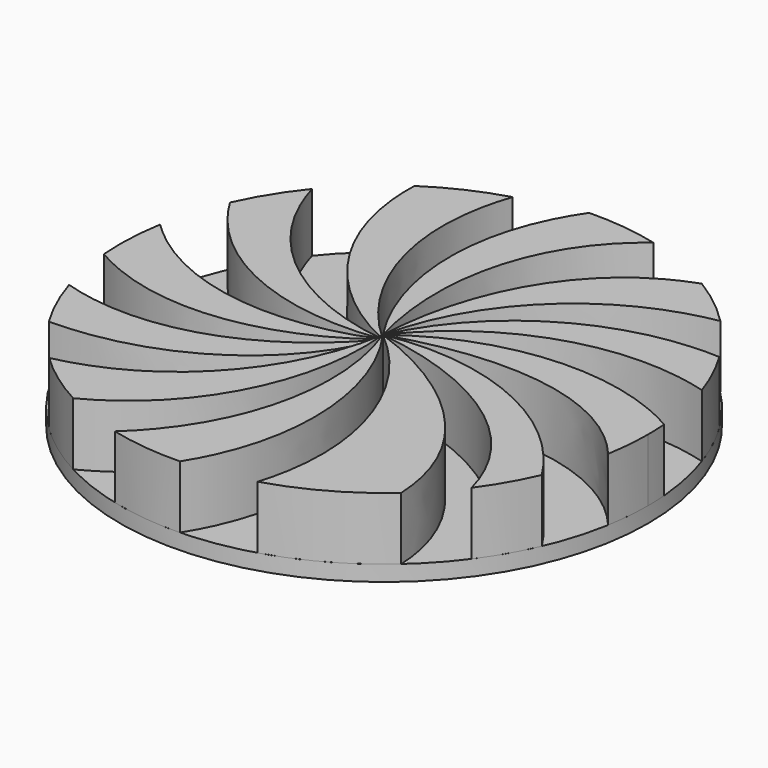
from build123d import *

# Parameters (mm, degrees)
F0_R     = 34.2215996358
F1_DEPTH = 2.032
F3_DEPTH = 7.62
F4_DEPTH = 8.128


with BuildPart() as f1:
    # F0 (on Top) → F1 (new body)
    with BuildSketch(Plane.XY):
        Circle(F0_R)
    extrude(amount=F1_DEPTH)


with BuildPart() as f3:
    # F2 (on face) → F3 (new body)
    with BuildSketch(Plane.XY.offset(2.032)):
        with BuildLine():
            add(Edge.make_bspline(
                [(-0.3817611553, 0.2762220522), (-9.8229269799, -7.0229845844), (-23.0317515902, -9.1478075381), (-34.1086866499, -2.7776566832)],
                knots=[0, 0, 0, 0, 33.8410269735, 33.8410269735, 33.8410269735, 33.8410269735], degree=3))
            add(Edge.make_bspline(
                [(-0.3817611553, 0.2762220522), (-11.3469740052, -4.3691175462), (-24.6286084385, -3.076460801), (-33.7174154576, 5.8526725941)],
                knots=[0, 0, 0, 0, 33.7697886593, 33.7697886593, 33.7697886593, 33.7697886593], degree=3))
            ThreePointArc((-33.7174154576, 5.8526725941), (-34.1864838442, 1.5499045131), (-34.1086866499, -2.7776566832))
        make_face()
    extrude(amount=F3_DEPTH)


with BuildPart() as f3b:
    # F2 (on face) → F3, piece 2 (new body)
    with BuildSketch(Plane.XY.offset(2.032)):
        with BuildLine():
            add(Edge.make_bspline(
                [(-0.3817611553, 0.2762220522), (-12.149506396, -1.451750886), (-24.6595885941, 3.1349126352), (-31.209655543, 14.0383504202)],
                knots=[0, 0, 0, 0, 33.7281679226, 33.7281679226, 33.7281679226, 33.7281679226], degree=3))
            add(Edge.make_bspline(
                [(-0.3817611553, 0.2762220522), (-12.1912553322, 1.6614410134), (-23.0791894134, 9.3338814424), (-26.5780348787, 21.5575031861)],
                knots=[0, 0, 0, 0, 33.718303757, 33.718303757, 33.718303757, 33.718303757], degree=3))
            ThreePointArc((-26.5780348787, 21.5575031861), (-29.1374107574, 17.9479574321), (-31.209655543, 14.0383504202))
        make_face()
    extrude(amount=F3_DEPTH)


with BuildPart() as f3c:
    # F2 (on face) → F3, piece 3 (new body)
    with BuildSketch(Plane.XY.offset(2.032)):
        with BuildLine():
            add(Edge.make_bspline(
                [(-0.3817611553, 0.2762220522), (-11.2268992954, 5.1788199302), (-19.2837011166, 15.8048513984), (-18.8984173579, 28.5301192251)],
                knots=[0, 0, 0, 0, 33.7504252176, 33.7504252176, 33.7504252176, 33.7504252176], degree=3))
            add(Edge.make_bspline(
                [(-0.3817611553, 0.2762220522), (-9.2903550793, 8.2085192991), (-13.8106843451, 20.7924909339), (-9.598690233, 32.8478770614)],
                knots=[0, 0, 0, 0, 33.8256201476, 33.8256201476, 33.8256201476, 33.8256201476], degree=3))
            ThreePointArc((-9.598690233, 32.8478770614), (-14.4111777258, 31.0392628486), (-18.8984173579, 28.5301192251))
        make_face()
    extrude(amount=F3_DEPTH)


with BuildPart() as f3d:
    # F2 (on face) → F3, piece 4 (new body)
    with BuildSketch(Plane.XY.offset(2.032)):
        with BuildLine():
            add(Edge.make_bspline(
                [(-0.3817611553, 0.2762220522), (-4.7698827505, -10.9447565523), (-16.2723124598, -17.744408223), (-29.2200601048, -17.8130842109)],
                knots=[0, 0, 0, 0, 34.0421868771, 34.0421868771, 34.0421868771, 34.0421868771], degree=3))
            add(Edge.make_bspline(
                [(-0.3817611553, 0.2762220522), (-7.9630895822, -8.9779186328), (-20.4008060987, -14.0142782596), (-32.6537965984, -10.2395043504)],
                knots=[0, 0, 0, 0, 33.9242868068, 33.9242868068, 33.9242868068, 33.9242868068], degree=3))
            ThreePointArc((-32.6537965984, -10.2395043504), (-31.1678249772, -14.1309790115), (-29.2200601048, -17.8130842109))
        make_face()
    extrude(amount=F3_DEPTH)


with BuildPart() as f4:
    # F2 (on face) → F4 (new body)
    with BuildSketch(Plane.XY.offset(2.032)):
        with BuildLine():
            add(Edge.make_bspline(
                [(-0.3817611553, 0.2762220522), (0.082940128, 12.3157413404), (5.6042566129, 24.9081220199), (17.8131157398, 29.2200408842)],
                knots=[0, 0, 0, 0, 34.1876906767, 34.1876906767, 34.1876906767, 34.1876906767], degree=3))
            add(Edge.make_bspline(
                [(-0.3817611553, 0.2762220522), (2.0794716343, 12.070640441), (11.638023001, 21.7803036433), (24.3941047373, 24.0009486416)],
                knots=[0, 0, 0, 0, 34.3031512033, 34.3031512033, 34.3031512033, 34.3031512033], degree=3))
            ThreePointArc((24.3941047373, 24.0009486416), (21.2643385991, 26.813164408), (17.8131157398, 29.2200408842))
        make_face()
    extrude(amount=F4_DEPTH)


with BuildPart() as f4b:
    # F2 (on face) → F4, piece 2 (new body)
    with BuildSketch(Plane.XY.offset(2.032)):
        with BuildLine():
            add(Edge.make_bspline(
                [(-0.3817611553, 0.2762220522), (-6.9521720731, 10.2719382831), (-8.0492913603, 23.6439437008), (-0.7937078722, 34.2123940911)],
                knots=[0, 0, 0, 0, 33.9206103455, 33.9206103455, 33.9206103455, 33.9206103455], degree=3))
            add(Edge.make_bspline(
                [(-0.3817611553, 0.2762220522), (-3.6369075218, 11.8766528247), (-1.927379488, 25.3299783042), (8.3672860592, 33.182923404)],
                knots=[0, 0, 0, 0, 34.0499166081, 34.0499166081, 34.0499166081, 34.0499166081], degree=3))
            ThreePointArc((8.3672860592, 33.182923404), (3.8216127633, 34.0075455968), (-0.7937078722, 34.2123940911))
        make_face()
    extrude(amount=F4_DEPTH)


with BuildPart() as f4c:
    # F2 (on face) → F4, piece 3 (new body)
    with BuildSketch(Plane.XY.offset(2.032)):
        with BuildLine():
            add(Edge.make_bspline(
                [(-0.3817611553, 0.2762220522), (4.5812652267, 11.2550353353), (16.3066018252, 18.3810098079), (29.2405489712, 17.7794313041)],
                knots=[0, 0, 0, 0, 34.407028226, 34.407028226, 34.407028226, 34.407028226], degree=3))
            add(Edge.make_bspline(
                [(-0.3817611553, 0.2762220522), (6.9110119386, 9.866917156), (19.933253013, 14.480576699), (32.4050155829, 11.0014929305)],
                knots=[0, 0, 0, 0, 34.4964369798, 34.4964369798, 34.4964369798, 34.4964369798], degree=3))
            ThreePointArc((32.4050155829, 11.0014929305), (31.0085313978, 14.4771841939), (29.2405489712, 17.7794313041))
        make_face()
    extrude(amount=F4_DEPTH)


with BuildPart() as f4d:
    # F2 (on face) → F4, piece 4 (new body)
    with BuildSketch(Plane.XY.offset(2.032)):
        with BuildLine():
            add(Edge.make_bspline(
                [(-0.3817611553, 0.2762220522), (9.0112285915, 7.6321928641), (22.9814035401, 9.0562104119), (34.1112441304, 2.7460709217)],
                knots=[0, 0, 0, 0, 34.5552390972, 34.5552390972, 34.5552390972, 34.5552390972], degree=3))
            add(Edge.make_bspline(
                [(-0.3817611553, 0.2762220522), (11.0574133137, 4.0592445794), (25.403553133, 4.0849762887), (33.7197465731, -5.8392270616)],
                knots=[0, 0, 0, 0, 34.6455126563, 34.6455126563, 34.6455126563, 34.6455126563], degree=3))
            ThreePointArc((33.7197465731, -5.8392270616), (34.0959055363, -2.930376647), (34.2215996358, 0))
            ThreePointArc((34.2215996358, 0), (34.1939996296, 1.3741437193), (34.1112441304, 2.7460709217))
        make_face()
    extrude(amount=F4_DEPTH)


with BuildPart() as f4e:
    # F2 (on face) → F4, piece 5 (new body)
    with BuildSketch(Plane.XY.offset(2.032)):
        with BuildLine():
            add(Edge.make_bspline(
                [(-0.3817611553, 0.2762220522), (11.4582311751, 2.5079374438), (24.4499826823, -2.7230475612), (31.375805733, -13.662968061)],
                knots=[0, 0, 0, 0, 34.6820425534, 34.6820425534, 34.6820425534, 34.6820425534], degree=3))
            add(Edge.make_bspline(
                [(-0.3817611553, 0.2762220522), (11.5841697027, -1.1317803185), (24.2313613727, -7.7612188367), (27.5719625485, -20.2707859457)],
                knots=[0, 0, 0, 0, 34.6927976181, 34.6927976181, 34.6927976181, 34.6927976181], degree=3))
            ThreePointArc((27.5719625485, -20.2707859457), (29.6584837887, -17.0731432662), (31.375805733, -13.662968061))
        make_face()
    extrude(amount=F4_DEPTH)


with BuildPart() as f4f:
    # F2 (on face) → F4, piece 6 (new body)
    with BuildSketch(Plane.XY.offset(2.032)):
        with BuildLine():
            add(Edge.make_bspline(
                [(-0.3817611553, 0.2762220522), (10.9548271557, -3.6994776759), (22.116637971, -12.7277303702), (22.7047371631, -25.6049368674)],
                knots=[0, 0, 0, 0, 34.6680932581, 34.6680932581, 34.6680932581, 34.6680932581], degree=3))
            add(Edge.make_bspline(
                [(-0.3817611553, 0.2762220522), (8.8992981296, -7.3271590703), (13.6641874946, -20.4878318195), (9.8246859974, -32.7809918502)],
                knots=[0, 0, 0, 0, 34.5853468499, 34.5853468499, 34.5853468499, 34.5853468499], degree=3))
            ThreePointArc((9.8246859974, -32.7809918502), (16.6557732954, -29.8948674117), (22.7047371631, -25.6049368674))
        make_face()
    extrude(amount=F4_DEPTH)


with BuildPart() as f4g:
    # F2 (on face) → F4, piece 7 (new body)
    with BuildSketch(Plane.XY.offset(2.032)):
        with BuildLine():
            add(Edge.make_bspline(
                [(-0.3817611553, 0.2762220522), (6.5952103219, -9.4424145058), (7.7242192428, -23.3428196088), (0.8982999443, -34.2098076411)],
                knots=[0, 0, 0, 0, 34.4906845206, 34.4906845206, 34.4906845206, 34.4906845206], degree=3))
            add(Edge.make_bspline(
                [(-0.3817611553, 0.2762220522), (3.8720425566, -10.9963608797), (1.2037657243, -24.4626193395), (-8.3672962496, -33.1829208344)],
                knots=[0, 0, 0, 0, 34.3988809912, 34.3988809912, 34.3988809912, 34.3988809912], degree=3))
            ThreePointArc((-8.3672962496, -33.1829208344), (-3.7696287059, -34.0133471016), (0.8982999443, -34.2098076411))
        make_face()
    extrude(amount=F4_DEPTH)


with BuildPart() as f4h:
    # F2 (on face) → F4, piece 8 (new body)
    with BuildSketch(Plane.XY.offset(2.032)):
        with BuildLine():
            add(Edge.make_bspline(
                [(-0.3817611553, 0.2762220522), (0.8095385597, -11.7132223455), (-4.682651348, -24.2065817136), (-16.1845673995, -30.1525730199)],
                knots=[0, 0, 0, 0, 34.2876108052, 34.2876108052, 34.2876108052, 34.2876108052], degree=3))
            add(Edge.make_bspline(
                [(-0.3817611553, 0.2762220522), (-2.334150544, -11.6130229891), (-10.9558298804, -22.0112002609), (-23.6047634385, -24.7776718972)],
                knots=[0, 0, 0, 0, 34.1614612841, 34.1614612841, 34.1614612841, 34.1614612841], degree=3))
            ThreePointArc((-23.6047634385, -24.7776718972), (-20.0753605859, -27.7145770124), (-16.1845673995, -30.1525730199))
        make_face()
    extrude(amount=F4_DEPTH)


solid = Compound([f1.part, f3.part, f3b.part, f3c.part, f3d.part, f4.part, f4b.part, f4c.part, f4d.part, f4e.part, f4f.part, f4g.part, f4h.part])
